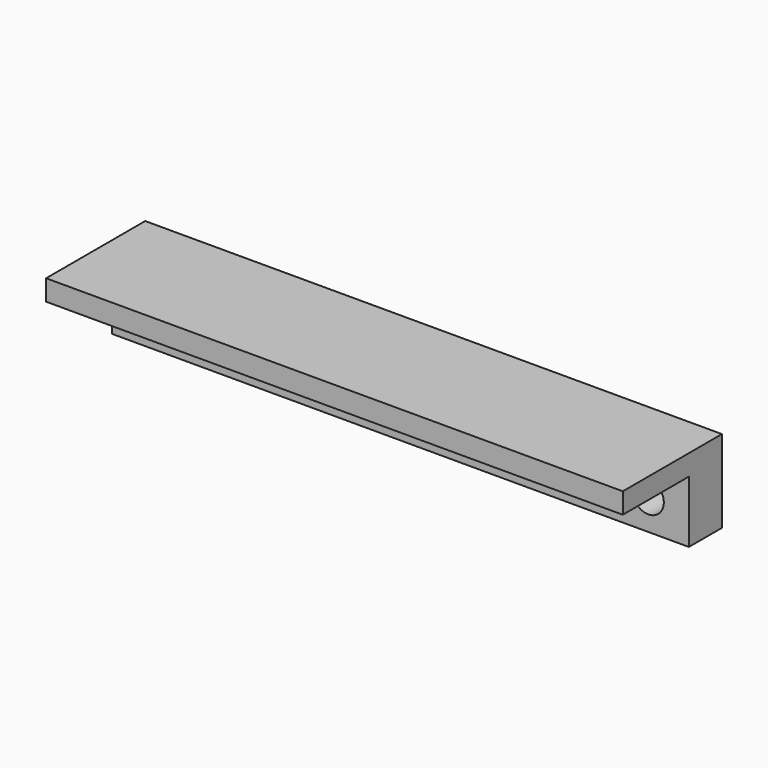
from build123d import *

# Parameters (mm, degrees)
F0_W          = 177.334
F0_H          = 19.05
F0_R          = 3.1369
F0_R_2        = 4.7625
F1_DEPTH      = 12.7
F2_W          = 177.334
F2_H          = 6.35
F3_DEPTH      = 25.4
F3_DEPTH_BACK = 12.7


with BuildPart() as f1:
    # F0 (on Front) → F1 (new body)
    with BuildSketch(Plane.XZ):
        with Locations((88.667, 9.525)):
            Rectangle(F0_W, F0_H)
        with Locations((12.467, 9.525)):
            Circle(F0_R, mode=Mode.SUBTRACT)
        with Locations((164.867, 9.525)):
            Circle(F0_R_2, mode=Mode.SUBTRACT)
    extrude(amount=F1_DEPTH)

    # F2 (on face) → F3 (join, two sides)
    with BuildSketch(Plane.XZ.offset(12.7)) as f3_sk:
        with Locations((88.667, 22.225)):
            Rectangle(F2_W, F2_H)
    extrude(amount=F3_DEPTH)
    extrude(f3_sk.sketch, amount=-F3_DEPTH_BACK)


solid = f1.part
